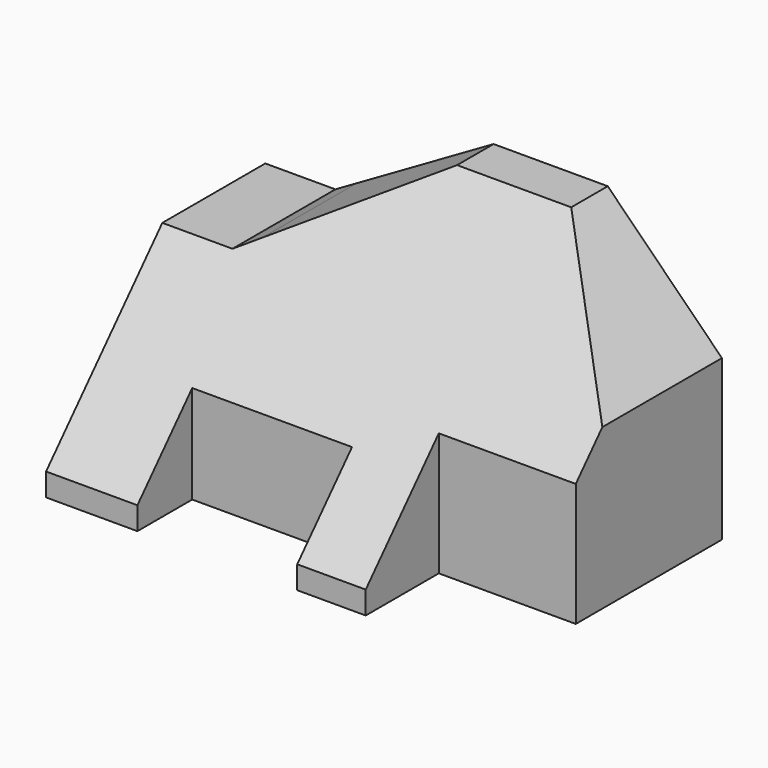
from build123d import *

# Parameters (mm, degrees)
F1_DEPTH = 60
F3_DEPTH = 100.001
F5_DEPTH = 60.001


with BuildPart() as f1:
    # F0 (on Top) → F1 (new body)
    with BuildSketch(Plane.XY):
        Polygon((45, 60), (-55, 60), (-55, 0), (-35, 0), (-35, 15), (0, 15), (0, 0), (15, 0), (15, 20), (45, 20), align=None)
    extrude(amount=-F1_DEPTH)

    # F2 (on face) → F3 (cut, through all)
    with BuildSketch(Plane(origin=(-55, 0, 0), x_dir=(0, -1, 0), z_dir=(-1, 0, 0))):
        Polygon((0, 0), (-50, 0), (0, -55), align=None)
    extrude(amount=-F3_DEPTH, mode=Mode.SUBTRACT)

    # F4 (on Front) → F5 (cut, through all)
    with BuildSketch(Plane.XZ):
        Polygon((-35, 0), (-55, 0), (-55, -20), (-39.641016, -20), (-35, -17.320508), align=None)
        Polygon((-5, 0), (-35, 0), (-35, -17.320508), align=None)
        Polygon((45, -25), (45, 0), (20, 0), align=None)
    extrude(amount=-F5_DEPTH, mode=Mode.SUBTRACT)


solid = f1.part
